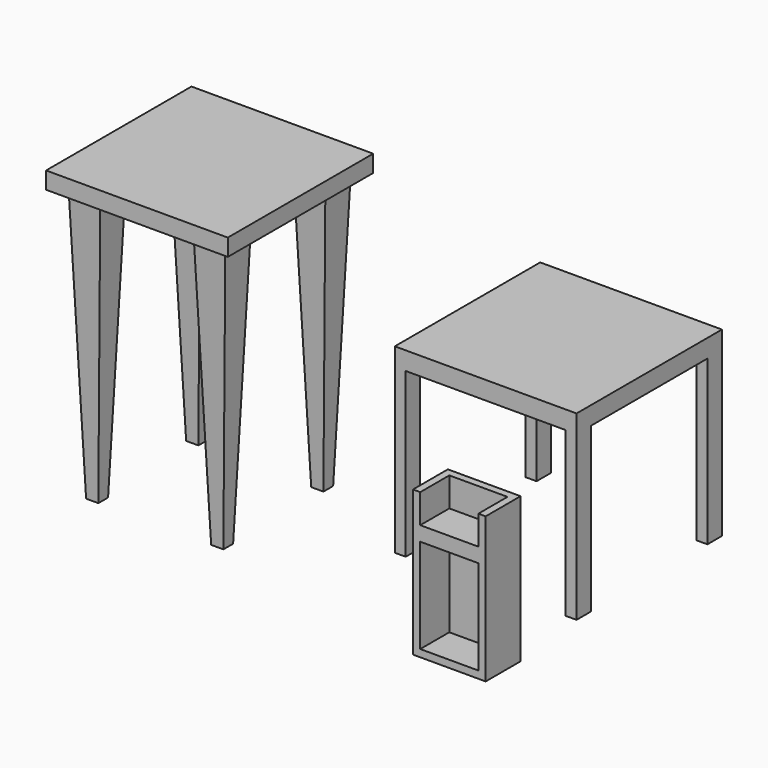
from build123d import *

# Parameters (mm, degrees)
F0_W      = 762
F0_H      = 762
F1_DEPTH  = 762
F2_W      = 670.56
F2_H      = 685.8
F3_DEPTH  = 762.001
F5_DEPTH  = 762.001
F6_W      = 762
F6_H      = 762
F7_DEPTH  = 1219.2
F10_DEPTH = 1187.3168271313
F11_DEPTH = 762.001
F12_W     = 304.8
F12_H     = 182.88
F13_DEPTH = 457.2
F14_T     = -30.48
F15_W     = 304.8
F15_H     = 182.88
F16_DEPTH = 152.4
F17_W     = 243.84
F17_H     = 121.92
F18_DEPTH = 152.4


with BuildPart() as f1:
    # F0 (on Top) → F1 (new body)
    with BuildSketch(Plane.XY):
        with Locations((381, 381)):
            Rectangle(F0_W, F0_H)
    extrude(amount=F1_DEPTH)

    # F2 (on face) → F3 (cut, through all)
    with BuildSketch(Plane.XZ):
        with Locations((381, 342.9)):
            Rectangle(F2_W, F2_H)
    extrude(amount=-F3_DEPTH, mode=Mode.SUBTRACT)

    # F4 (on face) → F5 (cut, through all)
    with BuildSketch(Plane.YZ.offset(762)):
        Polygon((76.2, 685.8), (76.2, 0), (685.8, 0), (685.8000751236, 685.8), align=None)
    extrude(amount=-F5_DEPTH, mode=Mode.SUBTRACT)


with BuildPart() as f7:
    # F6 (on Top) → F7 (new body)
    with BuildSketch(Plane.XY):
        with Locations((-740.938532114, -44.3158271313)):
            Rectangle(F6_W, F6_H)
    extrude(amount=F7_DEPTH)

    # F8 (on face) → F10 (cut, through all)
    with BuildSketch(Plane.XZ.offset(425.3158271313)):
        Polygon((-1069.6078538895, 1147.8358507156), (-1121.938532114, 1147.8358507156), (-1121.938532114, 0), (-1028.6828279495, 0), align=None)
        Polygon((-936.6015791893, 1147.8358507156), (-977.5266051292, 0), (-504.3504590988, 0), (-545.2754850388, 1147.8358507156), (-704.693377018, 1147.8358507156), align=None)
        Polygon((-359.938532114, 0), (-359.938532114, 1147.8358507156), (-412.2692103386, 1147.8358507156), (-453.1942362785, 0), align=None)
    extrude(amount=-F10_DEPTH, mode=Mode.SUBTRACT)

    # F9 (on face) → F11 (cut, through all)
    with BuildSketch(Plane.YZ.offset(-359.938532114)):
        Polygon((-372.9851489067, 1147.8358507156), (-425.3158271313, 1147.8358507156), (-425.3158271313, 0), (-332.0601229668, 0), align=None)
        Polygon((-239.9788742065, 1147.8358507156), (-280.9039001465, 0), (192.2722458839, 0), (151.347219944, 1147.8358507156), (-8.0706720352, 1147.8358507156), align=None)
        Polygon((336.6841728687, 0), (336.6841728687, 1147.8358507156), (284.3534946442, 1147.8358507156), (243.4284687042, 0), align=None)
    extrude(amount=-F11_DEPTH, mode=Mode.SUBTRACT)


with BuildPart() as f13:
    # F12 (on Top) → F13 (new body)
    with BuildSketch(Plane.XY):
        with Locations((650.1248646736, -435.4991536713)):
            Rectangle(F12_W, F12_H)
    extrude(amount=F13_DEPTH)

    # F14
    f14_openings = [f13.faces().sort_by_distance(p)[0] for p in [
        (650.124865, -526.939154, 228.6),
    ]]
    offset(amount=F14_T, openings=f14_openings)

    # F15 (on face) → F16 (join)
    with BuildSketch(Plane.XY.offset(457.2)):
        with Locations((650.1248646736, -435.4991536713)):
            Rectangle(F15_W, F15_H)
    extrude(amount=F16_DEPTH)

    # F17 (on face) → F18 (cut)
    with BuildSketch(Plane.XZ.offset(526.9391536713)):
        with Locations((650.1248646736, 548.64)):
            Rectangle(F17_W, F17_H)
    extrude(amount=-F18_DEPTH, mode=Mode.SUBTRACT)


solid = Compound([f1.part, f7.part, f13.part])
